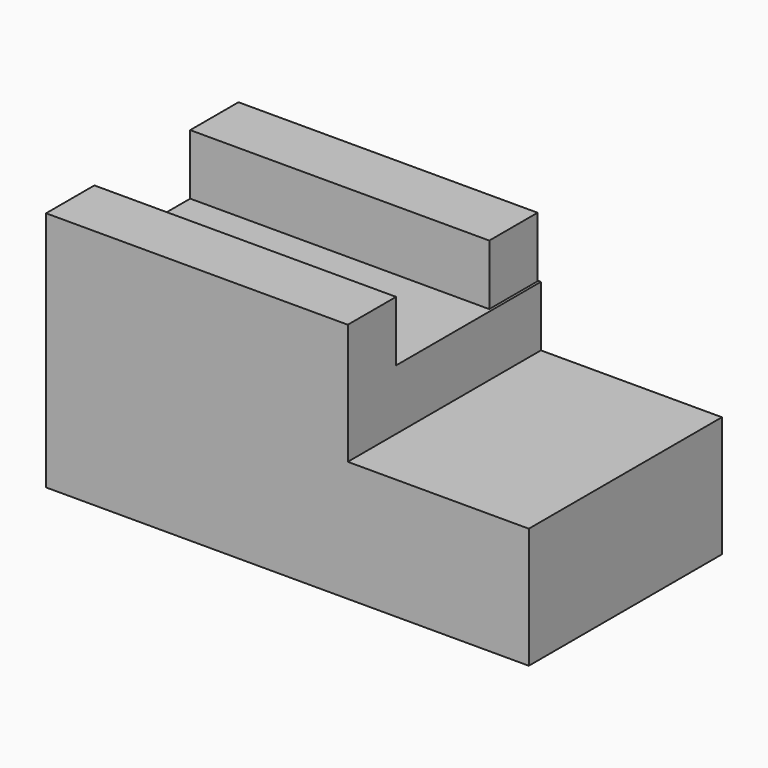
from build123d import *

# Parameters (mm, degrees)
F0_W     = 203.2
F0_H     = 101.6
F1_DEPTH = 101.6
F2_W     = 76.2
F2_H     = 101.6
F3_DEPTH = 50.8
F6_DEPTH = 25.4


with BuildPart() as f1:
    # F0 (on Top) → F1 (new body)
    with BuildSketch(Plane.XY):
        with Locations((-39.355746, 19.929246)):
            Rectangle(F0_W, F0_H)
    extrude(amount=F1_DEPTH)

    # F2 (on face) → F3 (cut)
    with BuildSketch(Plane.XY.offset(101.6)):
        with Locations((24.144254, 19.929246)):
            Rectangle(F2_W, F2_H)
    extrude(amount=-F3_DEPTH, mode=Mode.SUBTRACT)

    # F5 (on face) → F6 (cut)
    with BuildSketch(Plane.XY.offset(101.6)):
        Polygon((-140.955746, 70.729246), (-140.955746, 70.360331), (-15.061975, 70.360331), (-15.061975, 44.960331), (-140.955746, 44.960331), (-140.955746, -5.470754), (-13.955746, -5.470754), (-13.955746, 70.729246), align=None)
    extrude(amount=-F6_DEPTH, mode=Mode.SUBTRACT)


solid = f1.part
